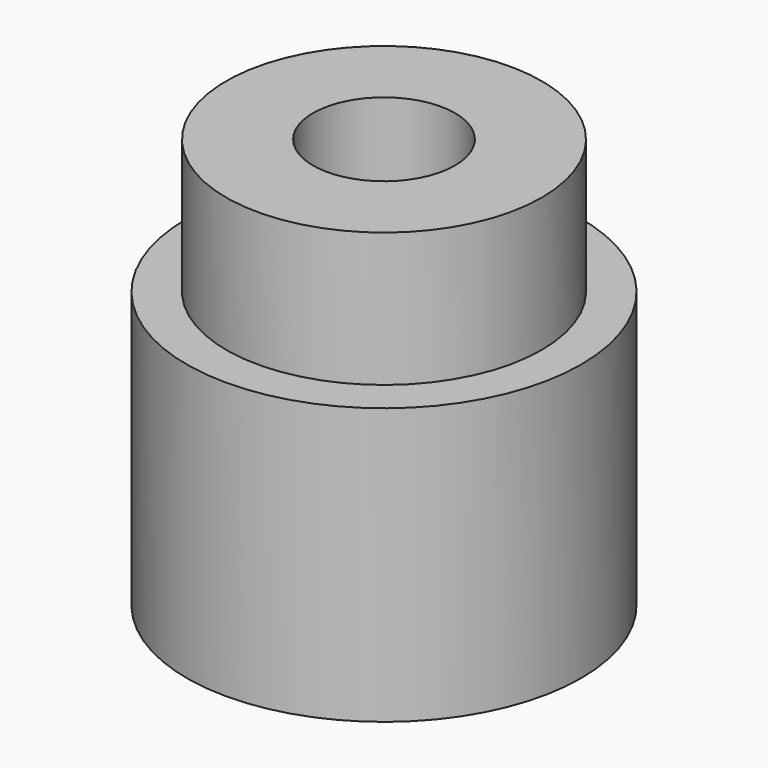
from build123d import *

# Parameters (mm, degrees)
CYLINDER002_R     = 0.9
CYLINDER002_DEPTH = 10
CYLINDER_R        = 2.5
CYLINDER_DEPTH    = 3.5
CYLINDER001_R     = 2
CYLINDER001_DEPTH = 5.2


with BuildPart() as cylinder002:
    # Cylinder002 → Cylinder002 (new body)
    with BuildSketch(Plane.XY):
        Circle(CYLINDER002_R)
    extrude(amount=CYLINDER002_DEPTH)


with BuildPart() as cylinder:
    # Cylinder → Cylinder (new body)
    with BuildSketch(Plane.XY):
        Circle(CYLINDER_R)
    extrude(amount=CYLINDER_DEPTH)


with BuildPart() as obj1:
    # Cylinder001 → Cylinder001 (new body)
    with BuildSketch(Plane.XY):
        Circle(CYLINDER001_R)
    extrude(amount=CYLINDER001_DEPTH)

    # Fusion: union Cylinder
    add(cylinder.part)

    # Cut: cut Cylinder002
    add(cylinder002.part, mode=Mode.SUBTRACT)


solid = obj1.part
